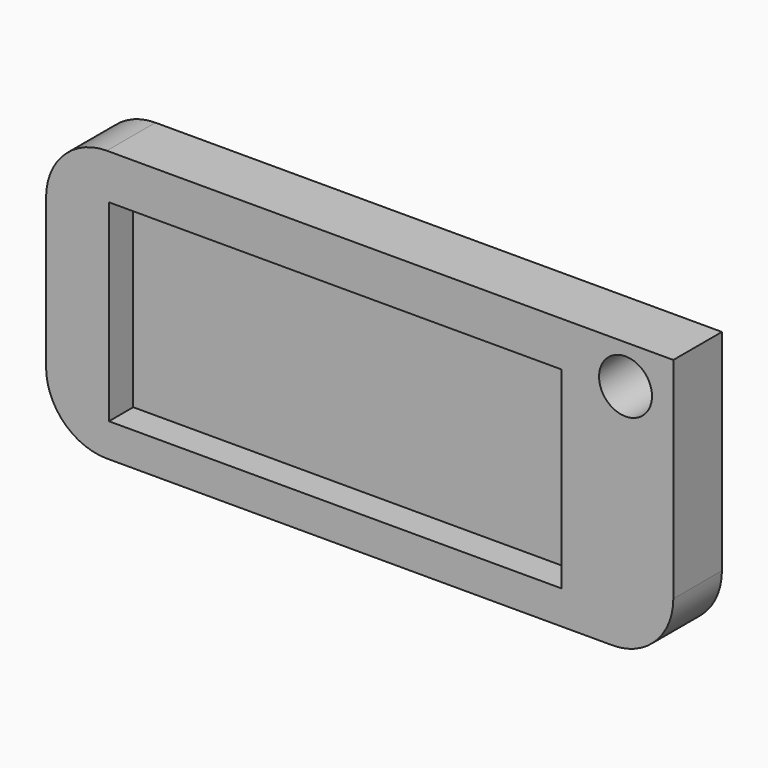
from build123d import *

# Parameters (mm, degrees)
F0_W     = 47.305181
F0_H     = 20.148503
F1_DEPTH = 6.35
F2_DEPTH = 3.175
F3_R     = 2.767863
F4_DEPTH = 25.4


with BuildPart() as f1:
    # F0 (on Front) → F1 (new body)
    with BuildSketch(Plane.XZ):
        with BuildLine():
            Line((65.55564, 35.770893), (6.35, 35.770893))
            ThreePointArc((6.35, 35.770893), (1.859872, 33.911021), (0, 29.420893))
            Line((0, 29.420893), (0, 13.796186))
            ThreePointArc((0, 13.796186), (1.859872, 9.306058), (6.35, 7.446186))
            Line((6.35, 7.446186), (59.20564, 7.446186))
            ThreePointArc((59.20564, 7.446186), (63.695768, 9.306058), (65.55564, 13.796186))
            Line((65.55564, 13.796186), (65.55564, 35.770893))
        make_face()
        with Locations((30.222755, 21.024525)):
            Rectangle(F0_W, F0_H, mode=Mode.SUBTRACT)
    extrude(amount=F1_DEPTH)

    # F0 (on Front) → F2 (join)
    with BuildSketch(Plane.XZ):
        with Locations((30.222755, 21.024525)):
            Rectangle(F0_W, F0_H)
    extrude(amount=F2_DEPTH)

    # F3 (on face) → F4 (cut)
    with BuildSketch(Plane.XZ.offset(6.35)):
        with Locations((60.560498, 31.713862)):
            Circle(F3_R)
    extrude(amount=-F4_DEPTH, mode=Mode.SUBTRACT)


solid = f1.part
